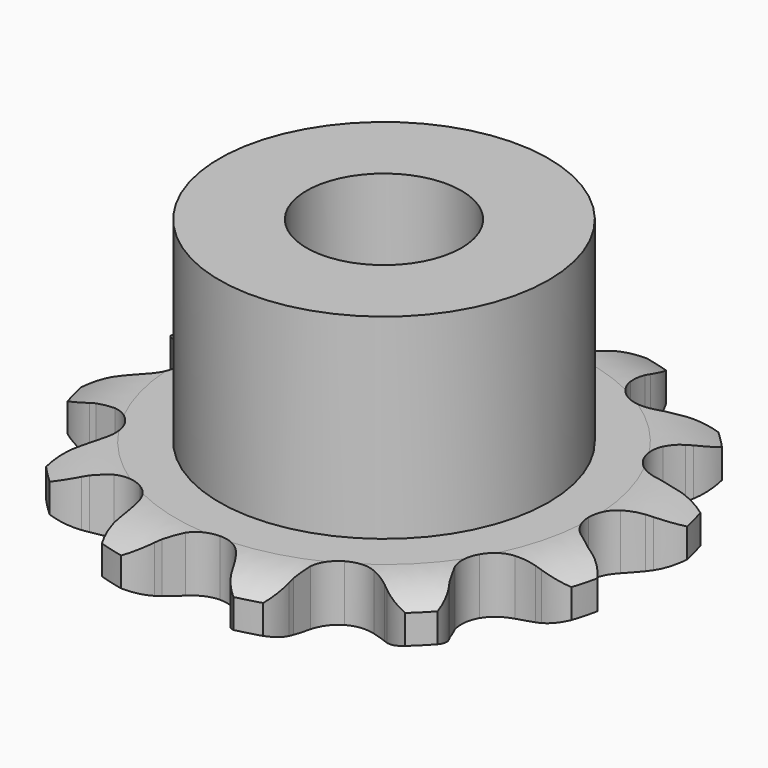
from build123d import *

# Parameters (mm, degrees)
PAD_DEPTH         = 2.9
SKETCH001_R       = 8.5
PAD001_DEPTH      = 13
SKETCH002_R       = 4
POCKET_DEPTH      = 0.001
POCKET_DEPTH_BACK = -13.001


with BuildPart() as part:
    # Sprocket → Pad (new body)
    with BuildSketch(Plane.XY):
        with BuildLine():
            ThreePointArc((-3.67453, 13.713533), (-2.691457, 13.18443), (-1.998794, 12.308872))
            Line((-1.998794, 12.308872), (-1.852747, 12.018067))
            ThreePointArc((-1.852747, 12.018067), (-1.60061, 11.581354), (-1.299479, 11.176865))
            ThreePointArc((-1.299479, 11.176865), (-0.716908, 10.729843), (0, 10.570908))
            ThreePointArc((0, 10.570908), (0.716908, 10.729843), (1.299479, 11.176865))
            ThreePointArc((1.299479, 11.176865), (1.60061, 11.581354), (1.852747, 12.018067))
            Line((1.852747, 12.018067), (1.998794, 12.308872))
            ThreePointArc((1.998794, 12.308872), (2.691457, 13.18443), (3.67453, 13.713533))
            ThreePointArc((3.67453, 13.713533), (4.261345, 12.76378), (4.423429, 11.659193))
            Line((4.423429, 11.659193), (4.404508, 11.334325))
            ThreePointArc((4.404508, 11.334325), (4.404508, 10.830052), (4.46305, 10.329189))
            ThreePointArc((4.46305, 10.329189), (4.74406, 9.650771), (5.285454, 9.154675))
            ThreePointArc((5.285454, 9.154675), (5.985782, 8.933862), (6.713815, 9.029709))
            Line((6.713815, 9.029709), (7.613559, 9.481578))
            ThreePointArc((7.613559, 9.481578), (7.747823, 9.57354), (7.885443, 9.660399))
            ThreePointArc((7.885443, 9.660399), (8.923085, 10.072323), (10.039003, 10.039003))
            ThreePointArc((10.039003, 10.039003), (10.072323, 8.923085), (9.660399, 7.885443))
            Line((9.660399, 7.885443), (9.481578, 7.613559))
            ThreePointArc((9.481578, 7.613559), (9.229442, 7.176846), (9.029709, 6.713815))
            ThreePointArc((9.029709, 6.713815), (8.933862, 5.985782), (9.154675, 5.285454))
            ThreePointArc((9.154675, 5.285454), (9.650771, 4.74406), (10.329189, 4.46305))
            Line((10.329189, 4.46305), (11.334325, 4.404508))
            ThreePointArc((11.334325, 4.404508), (11.496581, 4.417017), (11.659193, 4.423429))
            ThreePointArc((11.659193, 4.423429), (12.76378, 4.261345), (13.713533, 3.67453))
            ThreePointArc((13.713533, 3.67453), (13.18443, 2.691457), (12.308872, 1.998794))
            Line((12.308872, 1.998794), (12.018067, 1.852747))
            ThreePointArc((12.018067, 1.852747), (11.581354, 1.60061), (11.176865, 1.299479))
            ThreePointArc((11.176865, 1.299479), (10.729843, 0.716908), (10.570908, 0))
            ThreePointArc((10.570908, 0), (10.729843, -0.716908), (11.176865, -1.299479))
            Line((11.176865, -1.299479), (12.018067, -1.852747))
            ThreePointArc((12.018067, -1.852747), (12.16484, -1.923042), (12.308872, -1.998794))
            ThreePointArc((12.308872, -1.998794), (13.18443, -2.691457), (13.713533, -3.67453))
            ThreePointArc((13.713533, -3.67453), (12.76378, -4.261345), (11.659193, -4.423429))
            Line((11.659193, -4.423429), (11.334325, -4.404508))
            ThreePointArc((11.334325, -4.404508), (10.830052, -4.404508), (10.329189, -4.46305))
            ThreePointArc((10.329189, -4.46305), (9.650771, -4.74406), (9.154675, -5.285454))
            ThreePointArc((9.154675, -5.285454), (8.933862, -5.985782), (9.029709, -6.713815))
            Line((9.029709, -6.713815), (9.481578, -7.613559))
            ThreePointArc((9.481578, -7.613559), (9.57354, -7.747823), (9.660399, -7.885443))
            ThreePointArc((9.660399, -7.885443), (10.072323, -8.923085), (10.039003, -10.039003))
            ThreePointArc((10.039003, -10.039003), (8.923085, -10.072323), (7.885443, -9.660399))
            Line((7.885443, -9.660399), (7.613559, -9.481578))
            ThreePointArc((7.613559, -9.481578), (7.176846, -9.229442), (6.713815, -9.029709))
            ThreePointArc((6.713815, -9.029709), (5.985782, -8.933862), (5.285454, -9.154675))
            ThreePointArc((5.285454, -9.154675), (4.74406, -9.650771), (4.46305, -10.329189))
            Line((4.46305, -10.329189), (4.404508, -11.334325))
            ThreePointArc((4.404508, -11.334325), (4.417017, -11.496581), (4.423429, -11.659193))
            ThreePointArc((4.423429, -11.659193), (4.261345, -12.76378), (3.67453, -13.713533))
            ThreePointArc((3.67453, -13.713533), (2.691457, -13.18443), (1.998794, -12.308872))
            Line((1.998794, -12.308872), (1.852747, -12.018067))
            ThreePointArc((1.852747, -12.018067), (1.60061, -11.581354), (1.299479, -11.176865))
            ThreePointArc((1.299479, -11.176865), (0.716908, -10.729843), (0, -10.570908))
            ThreePointArc((0, -10.570908), (-0.716908, -10.729843), (-1.299479, -11.176865))
            Line((-1.299479, -11.176865), (-1.852747, -12.018067))
            ThreePointArc((-1.852747, -12.018067), (-1.923042, -12.16484), (-1.998794, -12.308872))
            ThreePointArc((-1.998794, -12.308872), (-2.691457, -13.18443), (-3.67453, -13.713533))
            ThreePointArc((-3.67453, -13.713533), (-4.261345, -12.76378), (-4.423429, -11.659193))
            Line((-4.423429, -11.659193), (-4.404508, -11.334325))
            ThreePointArc((-4.404508, -11.334325), (-4.404508, -10.830052), (-4.46305, -10.329189))
            ThreePointArc((-4.46305, -10.329189), (-4.74406, -9.650771), (-5.285454, -9.154675))
            ThreePointArc((-5.285454, -9.154675), (-5.985782, -8.933862), (-6.713815, -9.029709))
            Line((-6.713815, -9.029709), (-7.613559, -9.481578))
            ThreePointArc((-7.613559, -9.481578), (-7.747823, -9.57354), (-7.885443, -9.660399))
            ThreePointArc((-7.885443, -9.660399), (-8.923085, -10.072323), (-10.039003, -10.039003))
            ThreePointArc((-10.039003, -10.039003), (-10.072323, -8.923085), (-9.660399, -7.885443))
            Line((-9.660399, -7.885443), (-9.481578, -7.613559))
            ThreePointArc((-9.481578, -7.613559), (-9.229442, -7.176846), (-9.029709, -6.713815))
            ThreePointArc((-9.029709, -6.713815), (-8.933862, -5.985782), (-9.154675, -5.285454))
            ThreePointArc((-9.154675, -5.285454), (-9.650771, -4.74406), (-10.329189, -4.46305))
            Line((-10.329189, -4.46305), (-11.334325, -4.404508))
            ThreePointArc((-11.334325, -4.404508), (-11.496581, -4.417017), (-11.659193, -4.423429))
            ThreePointArc((-11.659193, -4.423429), (-12.76378, -4.261345), (-13.713533, -3.67453))
            ThreePointArc((-13.713533, -3.67453), (-13.18443, -2.691457), (-12.308872, -1.998794))
            Line((-12.308872, -1.998794), (-12.018067, -1.852747))
            ThreePointArc((-12.018067, -1.852747), (-11.581354, -1.60061), (-11.176865, -1.299479))
            ThreePointArc((-11.176865, -1.299479), (-10.729843, -0.716908), (-10.570908, 0))
            ThreePointArc((-10.570908, 0), (-10.729843, 0.716908), (-11.176865, 1.299479))
            Line((-11.176865, 1.299479), (-12.018067, 1.852747))
            ThreePointArc((-12.018067, 1.852747), (-12.16484, 1.923042), (-12.308872, 1.998794))
            ThreePointArc((-12.308872, 1.998794), (-13.18443, 2.691457), (-13.713533, 3.67453))
            ThreePointArc((-13.713533, 3.67453), (-12.76378, 4.261345), (-11.659193, 4.423429))
            Line((-11.659193, 4.423429), (-11.334325, 4.404508))
            ThreePointArc((-11.334325, 4.404508), (-10.830052, 4.404508), (-10.329189, 4.46305))
            ThreePointArc((-10.329189, 4.46305), (-9.650771, 4.74406), (-9.154675, 5.285454))
            ThreePointArc((-9.154675, 5.285454), (-8.933862, 5.985782), (-9.029709, 6.713815))
            Line((-9.029709, 6.713815), (-9.481578, 7.613559))
            ThreePointArc((-9.481578, 7.613559), (-9.57354, 7.747823), (-9.660399, 7.885443))
            ThreePointArc((-9.660399, 7.885443), (-10.072323, 8.923085), (-10.039003, 10.039003))
            ThreePointArc((-10.039003, 10.039003), (-8.923085, 10.072323), (-7.885443, 9.660399))
            Line((-7.885443, 9.660399), (-7.613559, 9.481578))
            ThreePointArc((-7.613559, 9.481578), (-7.176846, 9.229442), (-6.713815, 9.029709))
            ThreePointArc((-6.713815, 9.029709), (-5.985782, 8.933862), (-5.285454, 9.154675))
            ThreePointArc((-5.285454, 9.154675), (-4.74406, 9.650771), (-4.46305, 10.329189))
            Line((-4.46305, 10.329189), (-4.404508, 11.334325))
            ThreePointArc((-4.404508, 11.334325), (-4.417017, 11.496581), (-4.423429, 11.659193))
            ThreePointArc((-4.423429, 11.659193), (-4.261345, 12.76378), (-3.67453, 13.713533))
        make_face()
    extrude(amount=PAD_DEPTH)

    # Sketch → Groove (revolve, cut)
    with BuildSketch(Plane.XZ):
        with BuildLine():
            Line((10.739674, 0), (13.65, 0))
            Line((16.560326, 0), (13.65, 0))
            Line((16.560326, 2.9), (16.560326, 0))
            Line((13.65, 2.9), (16.560326, 2.9))
            Line((10.739674, 2.9), (13.65, 2.9))
            ThreePointArc((13.65, 2.2), (12.236337, 2.72254), (10.739674, 2.9))
            Line((13.65, 0.7), (13.65, 2.2))
            ThreePointArc((10.739674, 0), (12.236337, 0.17746), (13.65, 0.7))
        make_face()
    revolve(axis=Axis((0, 0, 0), (0, 0, 1)), mode=Mode.SUBTRACT)

    # Sketch001 → Pad001 (join)
    with BuildSketch(Plane.XY):
        Circle(SKETCH001_R)
    extrude(amount=PAD001_DEPTH)

    # Sketch002 → Pocket (cut, two sides)
    with BuildSketch(Plane.XY) as pocket_sk:
        Circle(SKETCH002_R)
    extrude(amount=-POCKET_DEPTH, mode=Mode.SUBTRACT)
    extrude(pocket_sk.sketch, amount=-POCKET_DEPTH_BACK, mode=Mode.SUBTRACT)


solid = part.part
